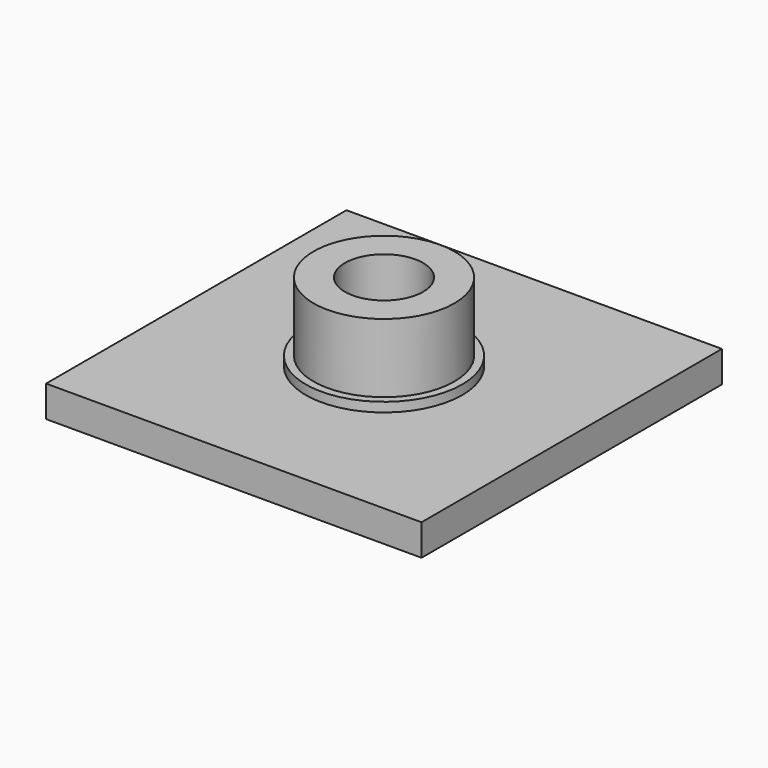
from build123d import *

# Parameters (mm, degrees)
F0_W     = 24
F0_H     = 24
F0_R     = 4.5
F1_DEPTH = 2
F0_R_2   = 3.6
F2_DEPTH = 5
F3_R     = 3.6
F3_R_2   = 2.5
F4_DEPTH = 4
F5_DEPTH = 2
F6_R     = 5
F6_R_2   = 4.5
F7_DEPTH = 0.6


with BuildPart() as f1:
    # F0 (on Top) → F1 (new body)
    with BuildSketch(Plane.XY):
        Rectangle(F0_W, F0_H)
        Circle(F0_R, mode=Mode.SUBTRACT)
    extrude(amount=-F1_DEPTH)


with BuildPart() as f2:
    # F0 (on Top) → F2 (new body)
    with BuildSketch(Plane.XY):
        Circle(F0_R)
        Circle(F0_R_2, mode=Mode.SUBTRACT)
    extrude(amount=F2_DEPTH)

    # F3 (on face) → F4 (join)
    with BuildSketch(Plane.XY.offset(5)):
        Circle(F3_R)
        Circle(F3_R_2, mode=Mode.SUBTRACT)
    extrude(amount=-F4_DEPTH)


with BuildPart() as f5:
    # F5 (new): a face of the model
    f5_faces = [f2.part.faces().sort_by_distance(p)[0] for p in [
        (-4.3727207794, 0, 0),
    ]]
    extrude(f5_faces, amount=F5_DEPTH)


with BuildPart() as f7:
    # F6 (on face) → F7 (new body)
    with BuildSketch(Plane.XY):
        Circle(F6_R)
        Circle(F6_R_2, mode=Mode.SUBTRACT)
    extrude(amount=F7_DEPTH)


solid = Compound([f1.part, f2.part, f5.part, f7.part])
